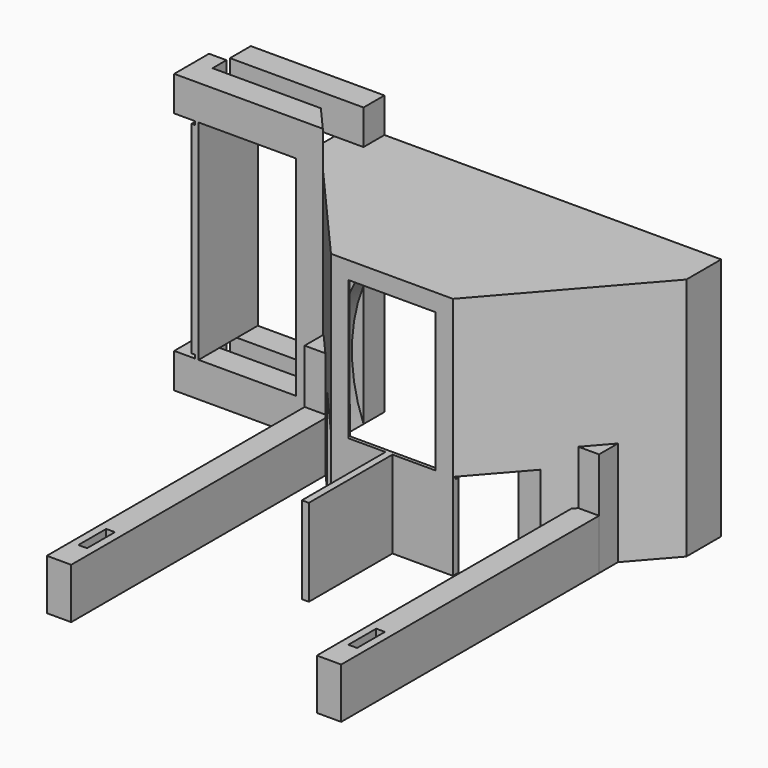
from build123d import *

# Parameters (mm, degrees)
PAD_DEPTH       = 28
SKETCH001_R     = 19
POCKET_DEPTH    = 5
POCKET001_DEPTH = 26
SKETCH003_W     = 30
SKETCH003_H     = 6
POCKET002_DEPTH = 10
SKETCH004_W     = 2.8
SKETCH004_H     = 40
PAD001_DEPTH    = 5.8
SKETCH005_W     = 2.722469
SKETCH005_H     = 3
SKETCH005_W_2   = 2.715425
PAD002_DEPTH    = 12
SKETCH006_R     = 1.6
POCKET003_DEPTH = 5
SKETCH007_W     = 1
SKETCH007_H     = 4
POCKET004_DEPTH = 6
PAD003_DEPTH    = 10
SKETCH009_W     = 14.845783
SKETCH009_H     = 0.4
POCKET005_DEPTH = 0.4
SKETCH010_W     = 15.336478
SKETCH010_H     = 3
PAD004_DEPTH    = 32
SKETCH011_W     = 8.5
SKETCH011_H     = 24
POCKET006_DEPTH = 14
SKETCH012_W     = 0.8
SKETCH012_H     = 8.5
PAD005_DEPTH    = 24
SKETCH013_W     = 8.5
SKETCH013_H     = 0.4
POCKET007_DEPTH = 0.4


with BuildPart() as part:
    # Sketch → Pad (new body)
    with BuildSketch(Plane(origin=(0, 0, 0), x_dir=(1, 0, 0), z_dir=(0, 0, -1))):
        Polygon((-52.483848, 11.054775), (-10.483848, 11.054775), (-10.483848, 16.054775), (-24.483848, 32.054775), (-38.483848, 32.054775), (-52.483848, 16.054775), align=None)
    extrude(amount=PAD_DEPTH)

    # Sketch001 → Pocket (cut)
    with BuildSketch(Plane(origin=(0, -11.054775, 0), x_dir=(1, 0, 0), z_dir=(0, 1, 0))):
        with Locations((-31.483848, 21)):
            Circle(SKETCH001_R)
    extrude(amount=-POCKET_DEPTH, mode=Mode.SUBTRACT)

    # Sketch002 → Pocket001 (cut)
    with BuildSketch(Plane(origin=(0, 0, -28), x_dir=(1, 0, 0), z_dir=(0, 0, -1))):
        Polygon((-49.14737, 16.054775), (-36.483848, 32.054775), (-26.483848, 32.054775), (-13.820326, 16.054775), align=None)
    extrude(amount=-POCKET001_DEPTH, mode=Mode.SUBTRACT)

    # Sketch003 → Pocket002 (cut)
    with BuildSketch(Plane(origin=(0, 0, -28), x_dir=(1, 0, 0), z_dir=(0, 0, -1))):
        with Locations((-31.483848, 29.054775)):
            Rectangle(SKETCH003_W, SKETCH003_H)
    extrude(amount=-POCKET002_DEPTH, mode=Mode.SUBTRACT)

    # Sketch004 → Pad001 (new body)
    with BuildSketch(Plane(origin=(0, 0, -28), x_dir=(1, 0, 0), z_dir=(0, 0, -1))):
        with Locations((-46.98737, 40.454775)):
            Rectangle(SKETCH004_W, SKETCH004_H)
        with Locations((-15.98737, 40.454775)):
            Rectangle(SKETCH004_W, SKETCH004_H)
    extrude(amount=-PAD001_DEPTH)

    # Sketch005 → Pad002 (new body)
    with BuildSketch(Plane(origin=(0, 0, -28), x_dir=(1, 0, 0), z_dir=(0, 0, -1))):
        with Locations((-47.026135, 21.954775)):
            Rectangle(SKETCH005_W, SKETCH005_H)
        with Locations((-15.945082, 21.954775)):
            Rectangle(SKETCH005_W_2, SKETCH005_H)
    extrude(amount=-PAD002_DEPTH)

    # Sketch006 → Pocket003 (cut)
    with BuildSketch(Plane(origin=(0, -11.054775, 0), x_dir=(1, 0, 0), z_dir=(0, 1, 0))):
        with Locations((-47.483848, 4)):
            Circle(SKETCH006_R)
        with Locations((-15.483848, 4)):
            Circle(SKETCH006_R)
    extrude(amount=-POCKET003_DEPTH, mode=Mode.SUBTRACT)

    # Sketch007 → Pocket004 (cut)
    with BuildSketch(Plane(origin=(0, 0, -28), x_dir=(1, 0, 0), z_dir=(0, 0, -1))):
        with Locations((-46.98737, 55.054775)):
            Rectangle(SKETCH007_W, SKETCH007_H)
        with Locations((-15.98737, 55.054775)):
            Rectangle(SKETCH007_W, SKETCH007_H)
    extrude(amount=-POCKET004_DEPTH, mode=Mode.SUBTRACT)

    # Sketch008 → Pad003 (new body)
    with BuildSketch(Plane(origin=(0, 0, -18), x_dir=(1, 0, 0), z_dir=(0, 0, -1))):
        Polygon((-32.222141, 44.054382), (-31.422141, 44.054382), (-31.422141, 32.054775), (-24.483848, 32.054775), (-24.483848, 31.254775), (-38.483848, 31.254775), (-38.483848, 32.054775), (-32.222141, 32.054775), align=None)
    extrude(amount=PAD003_DEPTH)

    # Sketch009 → Pocket005 (cut)
    with BuildSketch(Plane(origin=(0, -31.254775, 0), x_dir=(1, 0, 0), z_dir=(0, 1, 0))):
        with Locations((-31.447088, 18.2)):
            Rectangle(SKETCH009_W, SKETCH009_H)
    extrude(amount=-POCKET005_DEPTH, mode=Mode.SUBTRACT)

    # Sketch010 → Pad004 (new body)
    with BuildSketch(Plane(origin=(0, 0, -28), x_dir=(1, 0, 0), z_dir=(0, 0, -1))):
        Polygon((-49.421348, 19.554775), (-66.483848, 19.554775), (-66.483848, 14.554775), (-64.483848, 14.554775), (-64.483848, 16.554775), (-52.046348, 16.554775), align=None)
        with Locations((-56.815609, 12.554775)):
            Rectangle(SKETCH010_W, SKETCH010_H)
    extrude(amount=-PAD004_DEPTH)

    # Sketch011 → Pocket006 (cut)
    with BuildSketch(Plane(origin=(-66.483848, 0, 0), x_dir=(0, 1, 0), z_dir=(-1, 0, 0))):
        with Locations((-15.304775, 12)):
            Rectangle(SKETCH011_W, SKETCH011_H)
    extrude(amount=-POCKET006_DEPTH, mode=Mode.SUBTRACT)

    # Sketch012 → Pad005 (new body)
    with BuildSketch(Plane.XY.offset(-24)):
        with Locations((-64.083848, -15.304775)):
            Rectangle(SKETCH012_W, SKETCH012_H)
    extrude(amount=PAD005_DEPTH)

    # Sketch013 → Pocket007 (cut)
    with BuildSketch(Plane(origin=(-64.483848, 0, 0), x_dir=(0, 1, 0), z_dir=(-1, 0, 0))):
        with Locations((-15.304775, 0.2)):
            Rectangle(SKETCH013_W, SKETCH013_H)
        with Locations((-15.304775, 23.8)):
            Rectangle(SKETCH013_W, SKETCH013_H)
    extrude(amount=-POCKET007_DEPTH, mode=Mode.SUBTRACT)


solid = part.part
